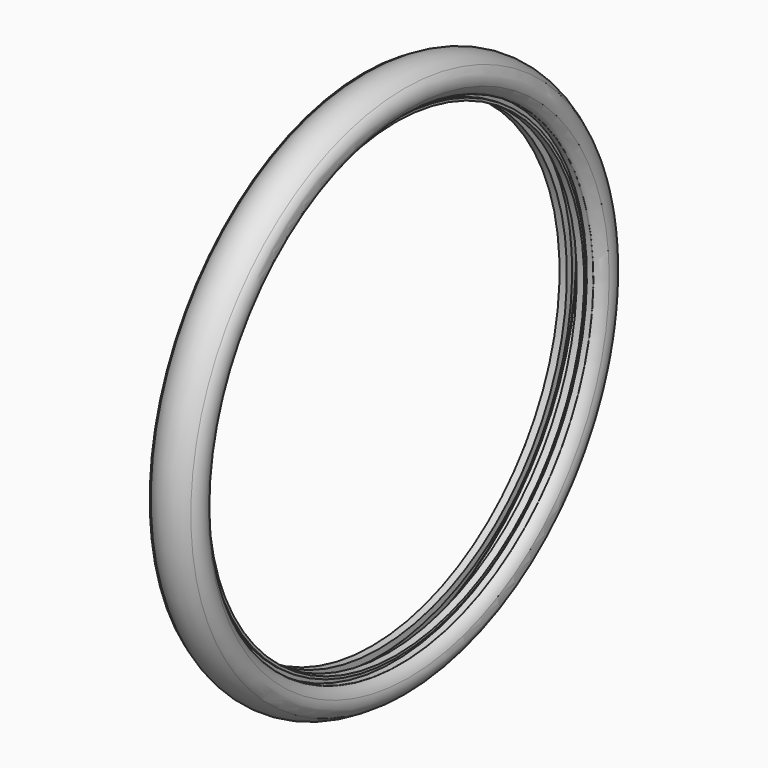
from build123d import *


with BuildPart() as f1:
    # F0 (on Front) → F1 (revolve)
    with BuildSketch(Plane.XZ):
        with BuildLine():
            Line((-231.056336, 62.527261), (-228.227908, 65.355688))
            ThreePointArc((-228.227908, 65.355688), (-253.227908, 75.711027), (-278.227908, 65.355688))
            Line((-278.227908, 65.355688), (-275.399481, 62.527261))
            ThreePointArc((-275.399481, 62.527261), (-253.227908, 71.711027), (-231.056336, 62.527261))
        make_face()
        Polygon((-241.227908, 35.355688), (-233.227908, 35.355688), (-236.11466, 40.355688), (-242.227908, 40.355688), (-247.227908, 35.355688), (-247.227908, 27.355688), (-238.227908, 27.355688), (-238.227908, 30.355688), (-241.227908, 30.355688), align=None)
        Polygon((-264.227908, 40.355688), (-270.341157, 40.355688), (-273.227908, 35.355688), (-265.227908, 35.355688), (-265.227908, 30.355688), (-268.227908, 30.355688), (-268.227908, 27.355688), (-259.227908, 27.355688), (-259.227908, 35.355688), align=None)
    revolve(axis=Axis((-218.383714, 0, -259.644312), (1, 0, 0)))

    # F2 (on Front) → F3 (revolve)
    with BuildSketch(Plane.XZ):
        with BuildLine():
            ThreePointArc((-273.150221, 35.312921), (-276.415114, 50.800662), (-278.633028, 66.472627))
            ThreePointArc((-278.633028, 66.472627), (-280.33314, 50.111253), (-273.150221, 35.312921))
        make_face()
        with BuildLine():
            ThreePointArc((-228.350371, 66.472627), (-226.650259, 50.111253), (-233.833179, 35.312921))
            Line((-233.833179, 35.312921), (-222.910232, 46.550361))
            ThreePointArc((-222.910232, 46.550361), (-222.565151, 57.34849), (-228.350371, 66.472627))
        make_face()
        with BuildLine():
            Line((-222.910232, 46.550361), (-233.833179, 35.312921))
            ThreePointArc((-233.833179, 35.312921), (-227.113053, 39.708214), (-222.910232, 46.550361))
        make_face()
    revolve(axis=Axis((-218.383714, 0, -259.644312), (1, 0, 0)))


solid = f1.part
